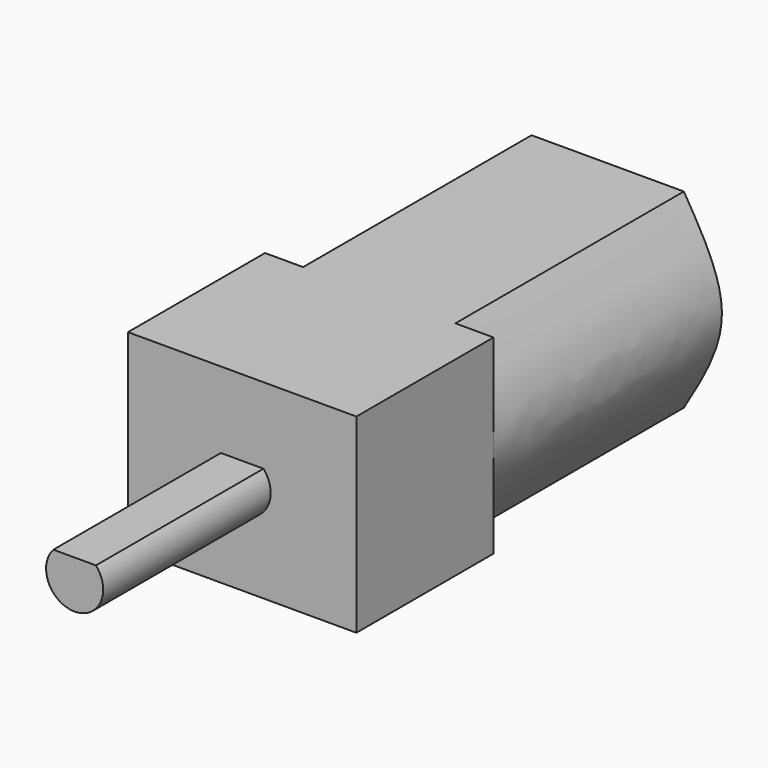
from build123d import *

# Parameters (mm, degrees)
F0_W     = 12
F0_H     = 10
F1_DEPTH = 9
F3_DEPTH = 15
F5_DEPTH = 11


with BuildPart() as f1:
    # F0 (on Front) → F1 (new body)
    with BuildSketch(Plane.XZ):
        with Locations((6, 5)):
            Rectangle(F0_W, F0_H)
    extrude(amount=F1_DEPTH)

    # F2 (on face) → F3 (join)
    with BuildSketch(Plane(origin=(0, 0, 0), x_dir=(-1, 0, 0), z_dir=(0, 1, 0))):
        with BuildLine():
            Line((-2, 10), (-10, 10))
            add(Edge.make_bspline(
                [(-12, 5), (-12, 6.6666666667), (-11, 8.3333333333), (-10, 10)],
                knots=[0.5, 0.5, 0.5, 0.5, 1, 1, 1, 1], degree=3))
            add(Edge.make_bspline(
                [(-10, 0), (-11, 1.6666666667), (-12, 3.3333333333), (-12, 5)],
                knots=[0, 0, 0, 0, 0.5, 0.5, 0.5, 0.5], degree=3))
            Line((-10, 0), (-2, 0))
            add(Edge.make_bspline(
                [(0, 5), (0, 3.3333333333), (-1, 1.6666666667), (-2, 0)],
                knots=[0.5, 0.5, 0.5, 0.5, 1, 1, 1, 1], degree=3))
            add(Edge.make_bspline(
                [(-2, 10), (-1, 8.3333333333), (0, 6.6666666667), (0, 5)],
                knots=[0, 0, 0, 0, 0.5, 0.5, 0.5, 0.5], degree=3))
        make_face()
    extrude(amount=F3_DEPTH)

    # F4 (on face) → F5 (join)
    with BuildSketch(Plane.XZ.offset(9)):
        with BuildLine():
            Line((6, 6), (4.8819660113, 6))
            ThreePointArc((4.8819660113, 6), (6, 3.5), (7.1180339887, 6))
            Line((7.1180339887, 6), (6, 6))
        make_face()
    extrude(amount=F5_DEPTH)


solid = f1.part
